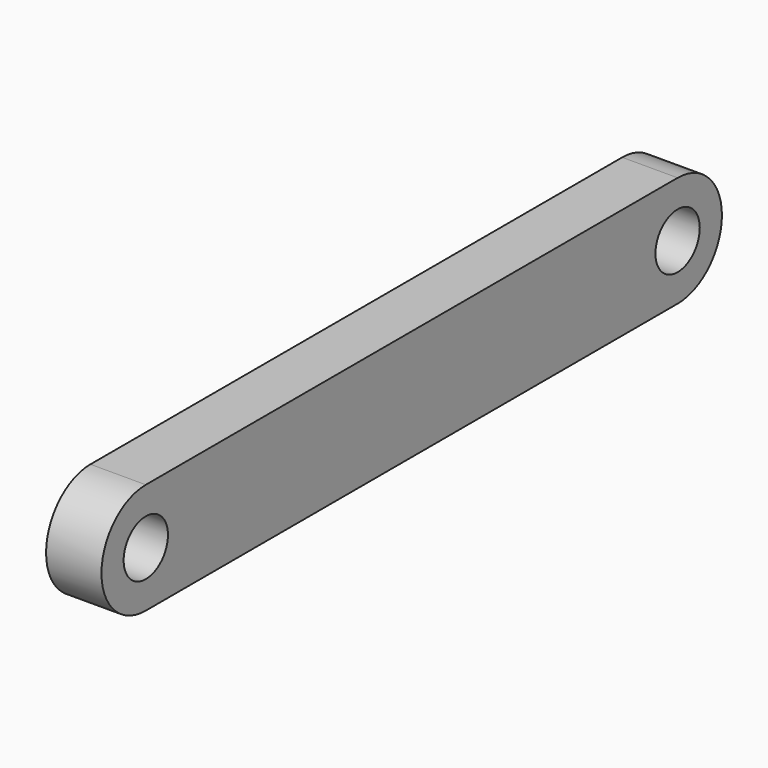
from build123d import *

# Parameters (mm, degrees)
F0_R     = 63.5
F1_DEPTH = 127


with BuildPart() as f1:
    # F0 (on Right) → F1 (new body)
    with BuildSketch(Plane.YZ):
        with BuildLine():
            Line((423.9281, 127), (-1100.0719, 127))
            ThreePointArc((-1100.0719, 127), (-1227.0719, 0), (-1100.0719, -127))
            Line((-1100.0719, -127), (423.9281, -127))
            ThreePointArc((423.9281, -127), (550.9281, 0), (423.9281, 127))
        make_face()
        with Locations((-1100.0719, 0)):
            Circle(F0_R, mode=Mode.SUBTRACT)
        with Locations((423.9281, 0)):
            Circle(F0_R, mode=Mode.SUBTRACT)
    extrude(amount=F1_DEPTH)


solid = f1.part
